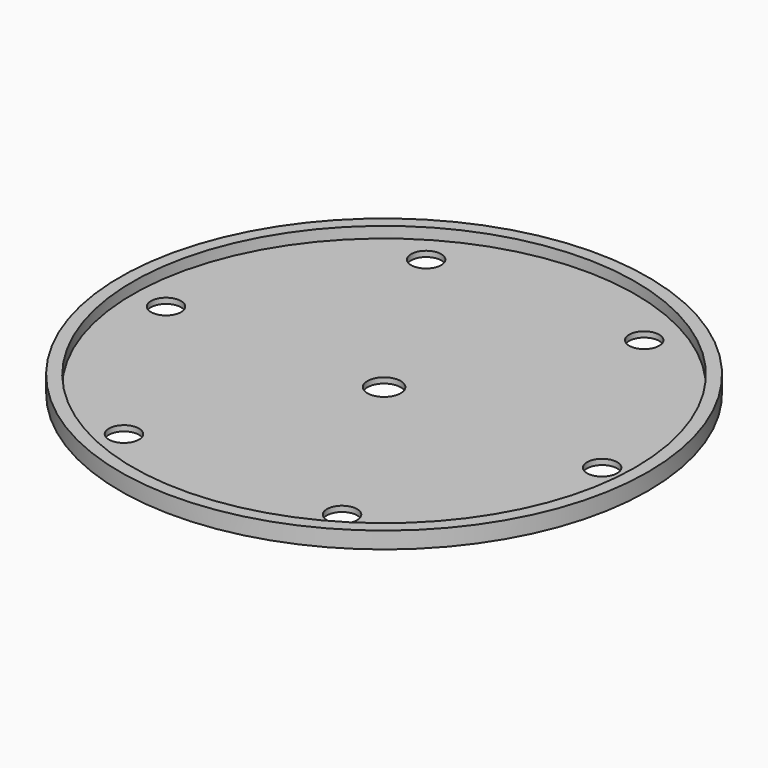
from build123d import *

# Parameters (mm, degrees)
F0_R     = 37.7825
F0_R_2   = 2.15265
F0_R_3   = 2.38125
F1_DEPTH = 0.79375
F2_R     = 37.7825
F2_R_2   = 35.9791
F3_DEPTH = 1.5875


with BuildPart() as f1:
    # F0 (on Top) → F1 (new body)
    with BuildSketch(Plane.XY):
        Circle(F0_R)
        with Locations((-15.6083, -27.034369)):
            Circle(F0_R_2, mode=Mode.SUBTRACT)
        with Locations((15.6083, -27.034369)):
            Circle(F0_R_2, mode=Mode.SUBTRACT)
        with Locations((-31.2166, 0)):
            Circle(F0_R_2, mode=Mode.SUBTRACT)
        with Locations((-15.6083, 27.034369)):
            Circle(F0_R_2, mode=Mode.SUBTRACT)
        Circle(F0_R_3, mode=Mode.SUBTRACT)
        with Locations((31.2166, 0)):
            Circle(F0_R_2, mode=Mode.SUBTRACT)
        with Locations((15.6083, 27.034369)):
            Circle(F0_R_2, mode=Mode.SUBTRACT)
    extrude(amount=F1_DEPTH)

    # F2 (on face) → F3 (join)
    with BuildSketch(Plane.XY.offset(0.79375)):
        Circle(F2_R)
        Circle(F2_R_2, mode=Mode.SUBTRACT)
    extrude(amount=F3_DEPTH)


solid = f1.part
